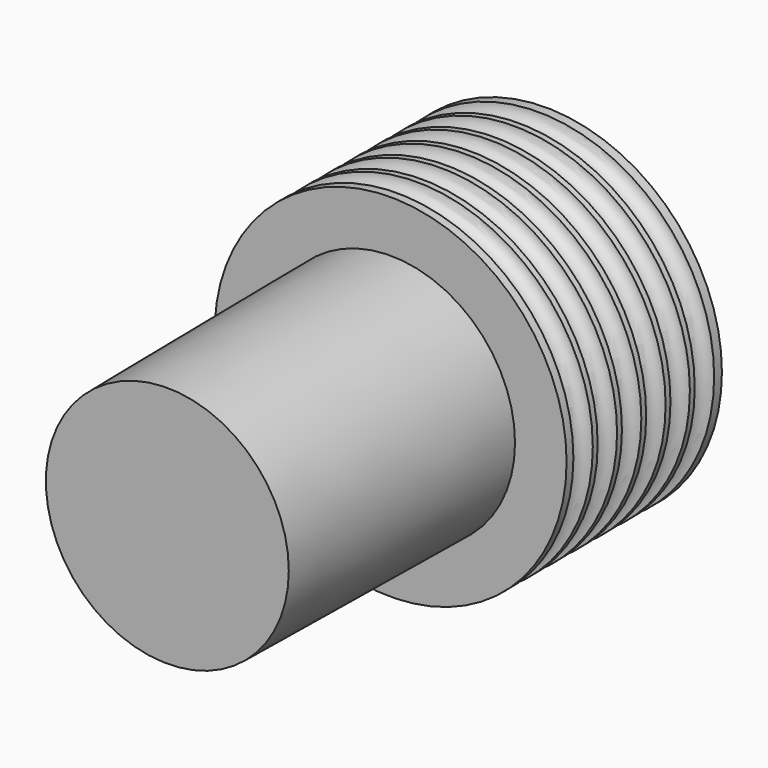
from build123d import *

# Parameters (mm, degrees)
F0_R     = 14.5
F1_DEPTH = 16
F2_R     = 10.25
F3_DEPTH = 23
F3_TAPER = 0.6


with BuildPart() as f1:
    # F0 (on Front) → F1 (new body)
    with BuildSketch(Plane.XZ):
        Circle(F0_R)
    extrude(amount=F1_DEPTH)

    # F2 (on face) → F3 (join)
    with BuildSketch(Plane.XZ.offset(16)):
        Circle(F2_R)
    extrude(amount=F3_DEPTH, taper=F3_TAPER)

    # F4 (on Top) → F5 (revolve, cut)
    with BuildSketch(Plane.XY):
        with BuildLine():
            ThreePointArc((-13.5, -1.8), (-13.7928932188, -1.0928932188), (-14.5, -0.8))
            Line((-14.5, -0.8), (-14.5, -2.8))
            ThreePointArc((-14.5, -2.8), (-13.7928932188, -2.5071067812), (-13.5, -1.8))
        make_face()
        with BuildLine():
            ThreePointArc((-13.5, -14.3), (-13.7928932188, -13.5928932188), (-14.5, -13.3))
            Line((-14.5, -13.3), (-14.5, -15.3))
            ThreePointArc((-14.5, -15.3), (-13.7928932188, -15.0071067812), (-13.5, -14.3))
        make_face()
        with BuildLine():
            Line((-14.5, -15.3), (-14.5, -13.3))
            ThreePointArc((-14.5, -13.3), (-15.5, -14.3), (-14.5, -15.3))
        make_face()
        with BuildLine():
            ThreePointArc((-13.5, -11.8), (-13.7928932188, -11.0928932188), (-14.5, -10.8))
            Line((-14.5, -10.8), (-14.5, -12.8))
            ThreePointArc((-14.5, -12.8), (-13.7928932188, -12.5071067812), (-13.5, -11.8))
        make_face()
        with BuildLine():
            Line((-14.5, -12.8), (-14.5, -10.8))
            ThreePointArc((-14.5, -10.8), (-15.5, -11.8), (-14.5, -12.8))
        make_face()
        with BuildLine():
            ThreePointArc((-13.5, -9.3), (-13.7928932188, -8.5928932188), (-14.5, -8.3))
            Line((-14.5, -8.3), (-14.5, -10.3))
            ThreePointArc((-14.5, -10.3), (-13.7928932188, -10.0071067812), (-13.5, -9.3))
        make_face()
        with BuildLine():
            Line((-14.5, -10.3), (-14.5, -8.3))
            ThreePointArc((-14.5, -8.3), (-15.5, -9.3), (-14.5, -10.3))
        make_face()
        with BuildLine():
            ThreePointArc((-13.5, -6.8), (-13.7928932188, -6.0928932188), (-14.5, -5.8))
            Line((-14.5, -5.8), (-14.5, -7.8))
            ThreePointArc((-14.5, -7.8), (-13.7928932188, -7.5071067812), (-13.5, -6.8))
        make_face()
        with BuildLine():
            Line((-14.5, -7.8), (-14.5, -5.8))
            ThreePointArc((-14.5, -5.8), (-15.5, -6.8), (-14.5, -7.8))
        make_face()
        with BuildLine():
            ThreePointArc((-13.5, -4.3), (-13.7928932188, -3.5928932188), (-14.5, -3.3))
            Line((-14.5, -3.3), (-14.5, -5.3))
            ThreePointArc((-14.5, -5.3), (-13.7928932188, -5.0071067812), (-13.5, -4.3))
        make_face()
        with BuildLine():
            Line((-14.5, -5.3), (-14.5, -3.3))
            ThreePointArc((-14.5, -3.3), (-15.5, -4.3), (-14.5, -5.3))
        make_face()
        with BuildLine():
            Line((-14.5, -2.8), (-14.5, -0.8))
            ThreePointArc((-14.5, -0.8), (-15.5, -1.8), (-14.5, -2.8))
        make_face()
    revolve(axis=Axis((0, -22.2350936383, 0), (0, -1, 0)), mode=Mode.SUBTRACT)


solid = f1.part
